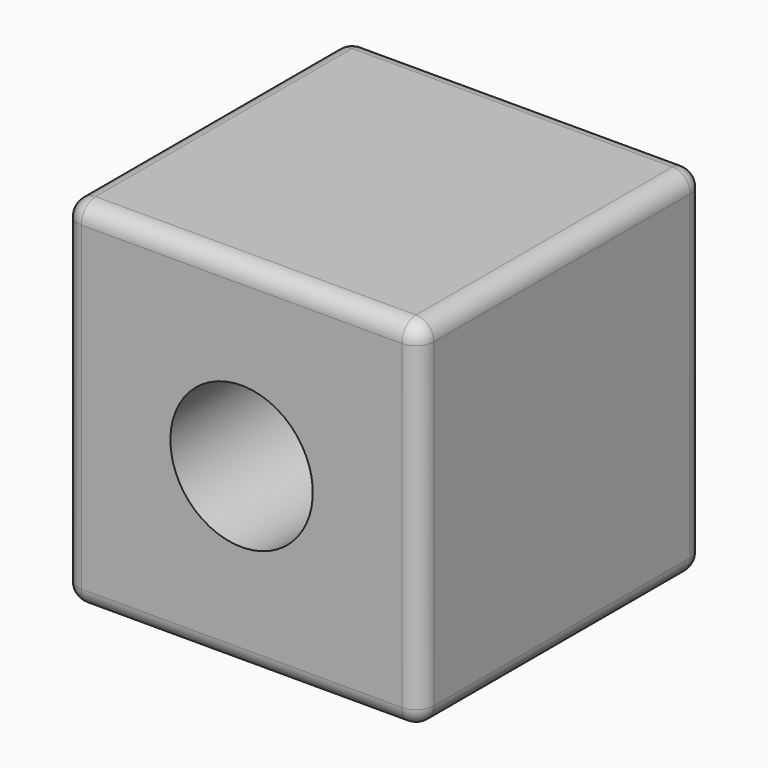
from build123d import *

# Parameters (mm, degrees)
F0_W     = 100
F0_H     = 100
F1_DEPTH = 100
F2_R     = 5
F3_R     = 20
F4_DEPTH = 100


with BuildPart() as f1:
    # F0 (on Front) → F1 (new body)
    with BuildSketch(Plane.XZ):
        with Locations((50, 50)):
            Rectangle(F0_W, F0_H)
    extrude(amount=F1_DEPTH)

    # F2
    f2_edges = [f1.edges().sort_by_distance(p)[0] for p in [
        (50, -100, 100),
        (50, -100, 0),
        (0, -50, 0),
        (0, -100, 50),
        (0, -50, 100),
        (100, -50, 100),
        (50, 0, 100),
        (0, 0, 50),
        (50, 0, 0),
        (100, 0, 50),
        (100, -50, 0),
        (100, -100, 50),
    ]]
    fillet(f2_edges, radius=F2_R)

    # F3 (on face) → F4 (cut)
    with BuildSketch(Plane(origin=(0, 0, 0), x_dir=(-1, 0, 0), z_dir=(0, 1, 0))):
        with Locations((-50, 50)):
            Circle(F3_R)
    extrude(amount=-F4_DEPTH, mode=Mode.SUBTRACT)


solid = f1.part
